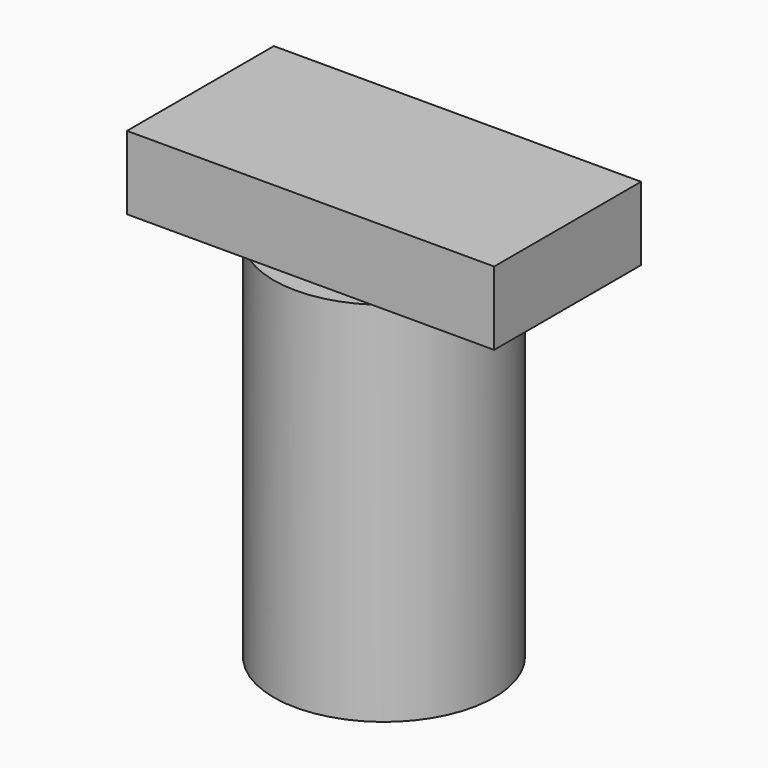
from build123d import *

# Parameters (mm, degrees)
F0_W     = 3
F0_H     = 10
F2_DEPTH = 2.5


with BuildPart() as f1:
    # F0 (on Front) → F1 (revolve)
    with BuildSketch(Plane.XZ):
        with Locations((-1.5, 5)):
            Rectangle(F0_W, F0_H)
    revolve(axis=Axis((0, 0, 5), (0, 0, -1)))

    # F0 (on Front) → F2 (join, symmetric)
    with BuildSketch(Plane.XZ):
        Polygon((0, 10), (3, 10), (5, 10), (5, 12), (-5, 12), (-5, 10), (-3, 10), align=None)
    extrude(amount=F2_DEPTH, both=True)


solid = f1.part
